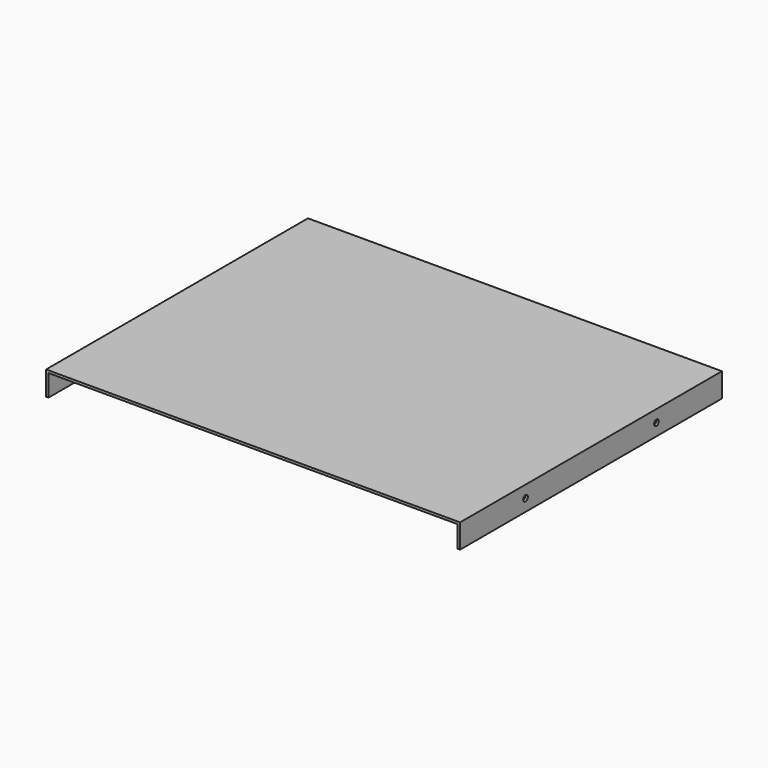
from build123d import *

# Parameters (mm, degrees)
F0_W           = 430
F0_H           = 340
F1_DEPTH       = 25
F2_T           = -2.5
F4_D           = 6
F4_DEPTH       = 1000
F4_CBORE_D     = 6
F4_CBORE_DEPTH = 5


with BuildPart() as f1:
    # F0 (on Top) → F1 (new body)
    with BuildSketch(Plane.XY):
        Rectangle(F0_W, F0_H)
    extrude(amount=F1_DEPTH)

    # F2
    f2_openings = [f1.faces().sort_by_distance(p)[0] for p in [
        (0, 0, 0),
        (0, -170, 12.5),
    ]]
    offset(amount=F2_T, openings=f2_openings)

    # F4
    with Locations(Plane(origin=(-215, 0, 0), x_dir=(0, -1, 0), z_dir=(-1, 0, 0))):
        with Locations((-85, 12.5), (85, 12.5)):
            CounterBoreHole(F4_D / 2, F4_CBORE_D / 2, F4_CBORE_DEPTH, depth=F4_DEPTH)


solid = f1.part
